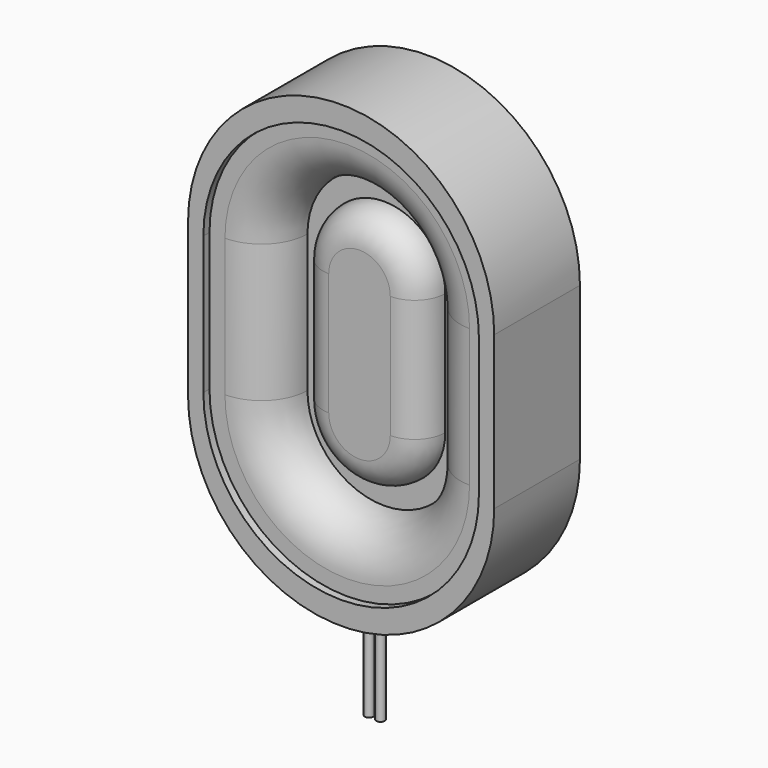
from build123d import *

# Parameters (mm, degrees)
PAD_DEPTH       = 7
POCKET_DEPTH    = 0.5
POCKET001_DEPTH = 3
FILLET_R        = 2.99
PAD001_DEPTH    = 2
FILLET001_R     = 1.99
SKETCH004_R     = 0.275
PAD002_DEPTH    = 10


with BuildPart() as part:
    # Sketch → Pad (new body)
    with BuildSketch(Plane.XZ):
        with BuildLine():
            ThreePointArc((10, 5), (0, 15), (-10, 5))
            Line((-10, 5), (-10, -5))
            ThreePointArc((-10, -5), (0, -15), (10, -5))
            Line((10, 5), (10, -5))
        make_face()
    extrude(amount=PAD_DEPTH)

    # Sketch001 (on Face6 of Pad) → Pocket (cut)
    with BuildSketch(Plane.XZ.offset(7)):
        with BuildLine():
            ThreePointArc((9, 4.5), (0, 13.5), (-9, 4.5))
            Line((-9, 4.5), (-9, -4.5))
            ThreePointArc((-9, -4.5), (0, -13.5), (9, -4.5))
            Line((9, 4.5), (9, -4.5))
        make_face()
    extrude(amount=-POCKET_DEPTH, mode=Mode.SUBTRACT)

    # Sketch002 (on Face11 of Pocket) → Pocket001 (cut)
    with BuildSketch(Plane.XZ.offset(6.5)):
        with BuildLine():
            ThreePointArc((5, 4.5), (0, 9.5), (-5, 4.5))
            Line((-5, 4.5), (-5, -4.5))
            ThreePointArc((-5, -4.5), (0, -9.5), (5, -4.5))
            Line((5, 4.5), (5, -4.5))
        make_face()
    extrude(amount=-POCKET001_DEPTH, mode=Mode.SUBTRACT)

    # Fillet
    fillet_edges = [part.edges().sort_by_distance(p)[0] for p in [
        (0, -6.5, 9.5),
        (5, -6.5, 0),
        (-5, -6.5, 0),
        (0, -6.5, -9.5),
    ]]
    fillet(fillet_edges, radius=FILLET_R)

    # Sketch003 (on Face15 of Fillet) → Pad001 (join)
    with BuildSketch(Plane.XZ.offset(3.5)):
        with BuildLine():
            ThreePointArc((4, 4), (0, 8), (-4, 4))
            Line((-4, 4), (-4, -4))
            ThreePointArc((-4, -4), (0, -8), (4, -4))
            Line((4, 4), (4, -4))
        make_face()
    extrude(amount=PAD001_DEPTH)

    # Fillet001
    fillet001_edges = [part.edges().sort_by_distance(p)[0] for p in [
        (-4, -5.5, 0),
        (0, -5.5, -8),
        (4, -5.5, 0),
        (0, -5.5, 8),
    ]]
    fillet(fillet001_edges, radius=FILLET001_R)

    # Sketch004 (on DatumPlane) → Pad002 (join)
    with BuildSketch(Plane(origin=(0, -3.5, -11.366198), x_dir=(0, -1, 0), z_dir=(0, 0, 1))):
        with Locations((0.75, 0.375)):
            Circle(SKETCH004_R)
        with Locations((0.75, -0.375)):
            Circle(SKETCH004_R)
    extrude(amount=-PAD002_DEPTH)


solid = part.part
